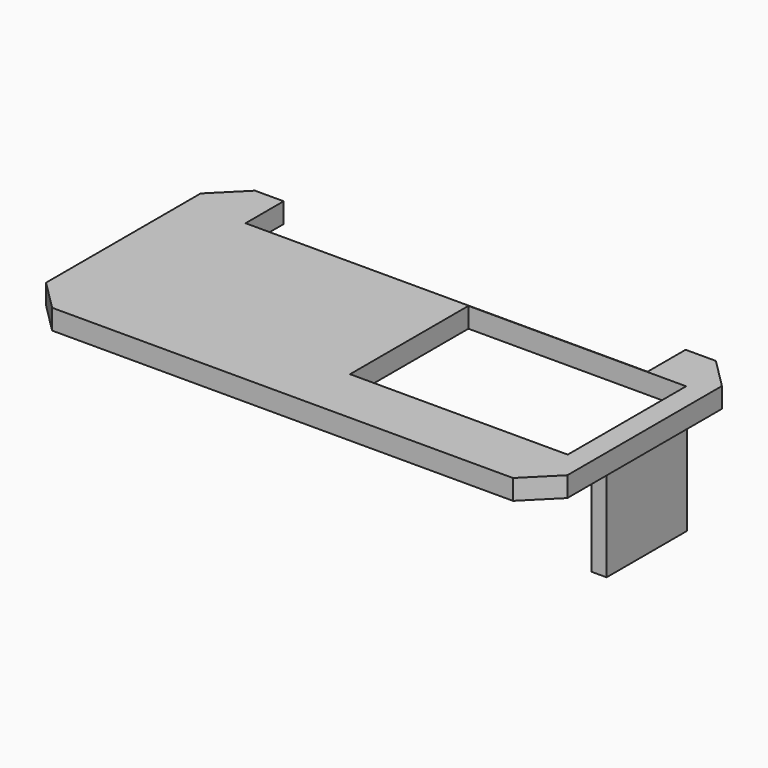
from build123d import *

# Parameters (mm, degrees)
BOX011_W     = 1.5
BOX011_H     = 10
BOX011_DEPTH = 9
BOX010_W     = 51.8
BOX010_H     = 25.2
BOX010_DEPTH = 2
CHAMFER_SIZE = 3
SKETCH_W     = 21.634724
SKETCH_H     = 14.706005
SKETCH_W_2   = 39.946578
SKETCH_H_2   = 4.737023
POCKET_DEPTH = 3


with BuildPart() as obj1:
    # Box011 → Box011 (new body)
    with BuildSketch(Plane(origin=(52.2, 10, 21), x_dir=(1, 0, 0), z_dir=(0, 0, 1))):
        with Locations((0.75, 5)):
            Rectangle(BOX011_W, BOX011_H)
    extrude(amount=BOX011_DEPTH)


with BuildPart() as bat_controller_sep:
    # Box010 → Box010 (new body)
    with BuildSketch(Plane(origin=(2, 2, 30), x_dir=(1, 0, 0), z_dir=(0, 0, 1))):
        with Locations((25.9, 12.6)):
            Rectangle(BOX010_W, BOX010_H)
    extrude(amount=BOX010_DEPTH)

    # Chamfer
    chamfer_edges = [bat_controller_sep.edges().sort_by_distance(p)[0] for p in [
        (2, 2, 31),
        (2, 27.2, 31),
        (53.8, 2, 31),
        (53.8, 27.2, 31),
    ]]
    chamfer(chamfer_edges, length=CHAMFER_SIZE)

    # Sketch (on Face5 of Chamfer) → Pocket (cut)
    with BuildSketch(Plane(origin=(0, 0, 30), x_dir=(1, 0, 0), z_dir=(0, 0, -1))):
        with Locations((40.844102, -15.075252)):
            Rectangle(SKETCH_W, SKETCH_H)
        with Locations((27.819974, -24.837604)):
            Rectangle(SKETCH_W_2, SKETCH_H_2)
    extrude(amount=-POCKET_DEPTH, mode=Mode.SUBTRACT)

    # Fusion008: union obj1
    add(obj1.part)


solid = bat_controller_sep.part
